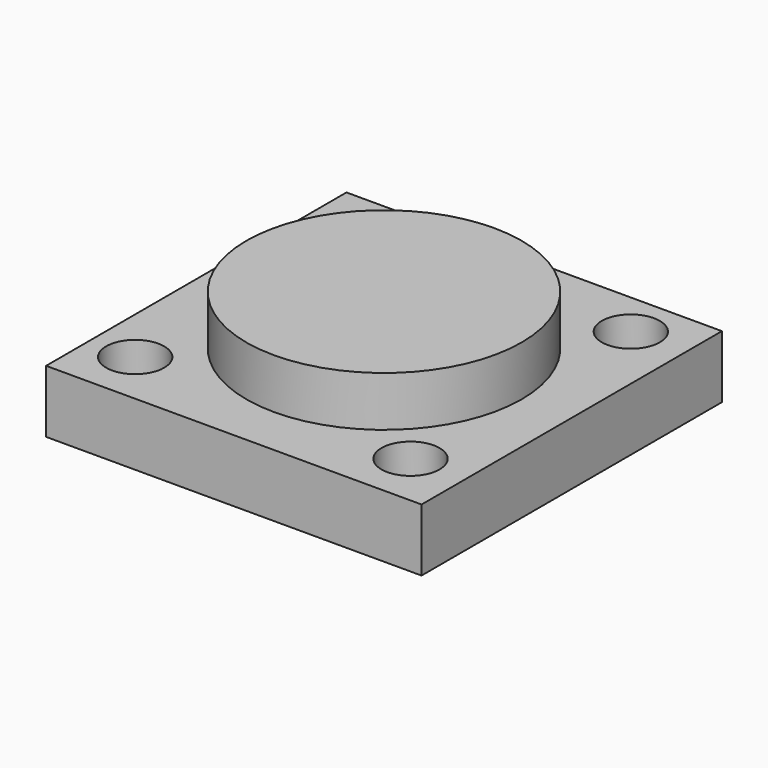
from build123d import *

# Parameters (mm, degrees)
F0_W     = 19.05
F0_H     = 19.05
F1_DEPTH = 6.223
F2_W     = 19.05
F2_H     = 19.05
F2_R     = 6.985
F3_DEPTH = 2.54
F4_R     = 1.4732
F5_DEPTH = 3.684
F6_W     = 19.05
F6_H     = 19.05
F6_R     = 1.5875
F7_DEPTH = 0.508
F8_R     = 1.5875
F9_DEPTH = 1.016


with BuildPart() as f1:
    # F0 (on Top) → F1 (new body)
    with BuildSketch(Plane.XY):
        Rectangle(F0_W, F0_H)
    extrude(amount=F1_DEPTH)

    # F2 (on face) → F3 (cut)
    with BuildSketch(Plane.XY.offset(6.223)):
        Rectangle(F2_W, F2_H)
        Circle(F2_R, mode=Mode.SUBTRACT)
    extrude(amount=-F3_DEPTH, mode=Mode.SUBTRACT)

    # F4 (on face) → F5 (cut, through all)
    with BuildSketch(Plane.XY.offset(3.683)):
        with Locations((-7.239, 7.239)):
            Circle(F4_R)
        with Locations((-7.239, -6.731)):
            Circle(F4_R)
        with Locations((6.731, 7.239)):
            Circle(F4_R)
        with Locations((6.731, -6.731)):
            Circle(F4_R)
    extrude(amount=-F5_DEPTH, mode=Mode.SUBTRACT)

    # F6 (on face) → F7 (cut)
    with BuildSketch(Plane(origin=(0, 0, 0), x_dir=(1, 0, 0), z_dir=(0, 0, -1))):
        Rectangle(F6_W, F6_H)
        Circle(F6_R, mode=Mode.SUBTRACT)
    extrude(amount=-F7_DEPTH, mode=Mode.SUBTRACT)

    # F8 (on face) → F9 (cut)
    with BuildSketch(Plane(origin=(0, 0, 0.508), x_dir=(1, 0, 0), z_dir=(0, 0, -1))):
        with BuildLine():
            ThreePointArc((-2.1236319767, -1.0912474455), (-1.8017283129, -0.5872901809), (-1.6891, 0))
            ThreePointArc((-1.6891, 0), (-1.8017283129, 0.5872901809), (-2.1236319767, 1.0912474455))
            ThreePointArc((-2.1236319767, 1.0912474455), (-2.3876, 0), (-2.1236319767, -1.0912474455))
        make_face()
        with BuildLine():
            ThreePointArc((-2.1236319767, 1.0912474455), (-1.8017283129, 0.5872901809), (-1.6891, 0))
            ThreePointArc((-1.6891, 0), (-1.8017283129, -0.5872901809), (-2.1236319767, -1.0912474455))
            ThreePointArc((-2.1236319767, -1.0912474455), (0.5613599791, -2.320669889), (2.3876, 0))
            ThreePointArc((2.3876, 0), (0.5613599791, 2.320669889), (-2.1236319767, 1.0912474455))
        make_face()
        Circle(F8_R, mode=Mode.SUBTRACT)
        with BuildLine():
            ThreePointArc((-2.1236319767, -1.0912474455), (-2.3876, 0), (-2.1236319767, 1.0912474455))
            ThreePointArc((-2.1236319767, 1.0912474455), (-4.8641, 0), (-2.1236319767, -1.0912474455))
        make_face()
    extrude(amount=-F9_DEPTH, mode=Mode.SUBTRACT)


solid = f1.part
